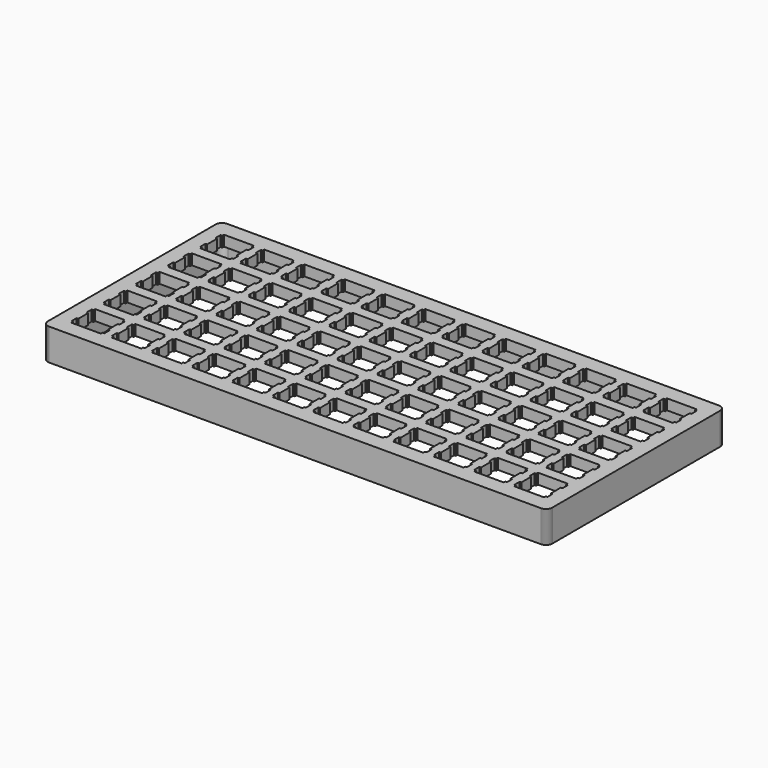
from build123d import *

# Parameters (mm, degrees)
F1_DEPTH = 15
F3_DEPTH = 10


with BuildPart() as f1:
    # F0 (on Top) → F1 (new body)
    with BuildSketch(Plane.XY):
        Polygon((116.536647, 52.616836), (116.300647, 52.624836), (-116.299283, 52.625836), (-116.534923, 52.616836), (-116.769193, 52.588836), (-117.000703, 52.542836), (-117.228073, 52.478836), (-117.448563, 52.396836), (-117.662153, 52.299836), (-117.867483, 52.181836), (-118.063163, 52.052836), (-118.249203, 51.906836), (-118.421459, 51.746836), (-118.58131, 51.574836), (-118.727381, 51.387836), (-118.856917, 51.192836), (-118.97405, 50.987836), (-119.071892, 50.773836), (-119.153196, 50.552836), (-119.217964, 50.325836), (-119.263439, 50.094836), (-119.291, 49.859836), (-119.299268, 49.624836), (-119.300646, -49.624464), (-119.291, -49.861494), (-119.263439, -50.095754), (-119.217964, -50.325894), (-119.153196, -50.553264), (-119.071892, -50.773754), (-118.97405, -50.987344), (-118.856917, -51.192674), (-118.727381, -51.389734), (-118.58131, -51.574394), (-118.421459, -51.746646), (-118.249203, -51.9065), (-118.063163, -52.052571), (-117.867483, -52.183483), (-117.662153, -52.29924), (-117.448563, -52.397081), (-117.228073, -52.479763), (-117.000703, -52.543153), (-116.769193, -52.588628), (-116.534923, -52.616189), (-116.299283, -52.624457), (116.300647, -52.625835), (116.536647, -52.616189), (116.770647, -52.588628), (117.001647, -52.543153), (117.228647, -52.479763), (117.448647, -52.397081), (117.662647, -52.29924), (117.867647, -52.183483), (118.064647, -52.052571), (118.249647, -51.9065), (118.421647, -51.746646), (118.581647, -51.574394), (118.727647, -51.389734), (118.858647, -51.192674), (118.974647, -50.987344), (119.072647, -50.773754), (119.154647, -50.553264), (119.218647, -50.325894), (119.263647, -50.095754), (119.291647, -49.861494), (119.300647, -49.624464), (119.300647, 49.624836), (119.291647, 49.859836), (119.263647, 50.094836), (119.218647, 50.325836), (119.154647, 50.552836), (119.072647, 50.773836), (118.974647, 50.987836), (118.858647, 51.192836), (118.727647, 51.387836), (118.581647, 51.574836), (118.421647, 51.746836), (118.249647, 51.906836), (118.064647, 52.052836), (117.867647, 52.181836), (117.662647, 52.299836), (117.448647, 52.396836), (117.228647, 52.478836), (117.001647, 52.542836), (116.770647, 52.588836), align=None)
        Polygon((-111.775163, -32.099964), (-111.775163, -31.099464), (-97.774253, -31.099464), (-97.774253, -32.099964), (-96.975053, -32.099964), (-96.975053, -35.199164), (-97.774253, -35.199164), (-97.774253, -41.000764), (-96.975053, -41.000764), (-96.975053, -44.099904), (-97.774253, -44.099904), (-97.774253, -45.100354), (-111.775163, -45.100354), (-111.775163, -44.099904), (-112.575833, -44.099904), (-112.575833, -41.000764), (-111.775163, -41.000764), (-111.775163, -35.199164), (-112.575833, -35.199164), (-112.575833, -32.099964), align=None, mode=Mode.SUBTRACT)
        Polygon((-92.725153, -32.099964), (-92.725153, -31.099464), (-78.724353, -31.099464), (-78.724353, -32.099964), (-77.924953, -32.099964), (-77.924953, -35.199164), (-78.724353, -35.199164), (-78.724353, -41.000764), (-77.924953, -41.000764), (-77.924953, -44.099904), (-78.724353, -44.099904), (-78.724353, -45.100354), (-92.725153, -45.100354), (-92.725153, -44.099904), (-93.524453, -44.099904), (-93.524453, -41.000764), (-92.725153, -41.000764), (-92.725153, -35.199164), (-93.524453, -35.199164), (-93.524453, -32.099964), align=None, mode=Mode.SUBTRACT)
        Polygon((-73.675053, -32.099964), (-73.675053, -31.099464), (-59.674353, -31.099464), (-59.674353, -32.099964), (-58.874953, -32.099964), (-58.874953, -35.199164), (-59.674353, -35.199164), (-59.674353, -41.000764), (-58.874953, -41.000764), (-58.874953, -44.099904), (-59.674353, -44.099904), (-59.674353, -45.100354), (-73.675053, -45.100354), (-73.675053, -44.099904), (-74.474453, -44.099904), (-74.474453, -41.000764), (-73.675053, -41.000764), (-73.675053, -35.199164), (-74.474453, -35.199164), (-74.474453, -32.099964), align=None, mode=Mode.SUBTRACT)
        Polygon((-54.625053, -32.099964), (-54.625053, -31.099464), (-40.624353, -31.099464), (-40.624353, -32.099964), (-39.824953, -32.099964), (-39.824953, -35.199164), (-40.624353, -35.199164), (-40.624353, -41.000764), (-39.824953, -41.000764), (-39.824953, -44.099904), (-40.624353, -44.099904), (-40.624353, -45.100354), (-54.625053, -45.100354), (-54.625053, -44.099904), (-55.424453, -44.099904), (-55.424453, -41.000764), (-54.625053, -41.000764), (-54.625053, -35.199164), (-55.424453, -35.199164), (-55.424453, -32.099964), align=None, mode=Mode.SUBTRACT)
        Polygon((-35.575053, -32.099964), (-35.575053, -31.099464), (-21.574353, -31.099464), (-21.574353, -32.099964), (-20.774953, -32.099964), (-20.774953, -35.199164), (-21.574353, -35.199164), (-21.574353, -41.000764), (-20.774953, -41.000764), (-20.774953, -44.099904), (-21.574353, -44.099904), (-21.574353, -45.100354), (-35.575053, -45.100354), (-35.575053, -44.099904), (-36.374453, -44.099904), (-36.374453, -41.000764), (-35.575053, -41.000764), (-35.575053, -35.199164), (-36.374453, -35.199164), (-36.374453, -32.099964), align=None, mode=Mode.SUBTRACT)
        Polygon((-16.525353, -32.099964), (-16.525353, -31.099464), (-2.525353, -31.099464), (-2.525353, -32.099964), (-1.725353, -32.099964), (-1.725353, -35.199164), (-2.525353, -35.199164), (-2.525353, -41.000764), (-1.725353, -41.000764), (-1.725353, -44.099904), (-2.525353, -44.099904), (-2.525353, -45.100354), (-16.525353, -45.100354), (-16.525353, -44.099904), (-17.324353, -44.099904), (-17.324353, -41.000764), (-16.525353, -41.000764), (-16.525353, -35.199164), (-17.324353, -35.199164), (-17.324353, -32.099964), align=None, mode=Mode.SUBTRACT)
        Polygon((-111.775163, -13.050064), (-111.775163, -12.049564), (-97.774253, -12.049564), (-97.774253, -13.050064), (-96.975053, -13.050064), (-96.975053, -16.149264), (-97.774253, -16.149264), (-97.774253, -21.950764), (-96.975053, -21.950764), (-96.975053, -25.049864), (-97.774253, -25.049864), (-97.774253, -26.050364), (-111.775163, -26.050364), (-111.775163, -25.049864), (-112.575833, -25.049864), (-112.575833, -21.950764), (-111.775163, -21.950764), (-111.775163, -16.149264), (-112.575833, -16.149264), (-112.575833, -13.050064), align=None, mode=Mode.SUBTRACT)
        Polygon((-92.725153, -13.050064), (-92.725153, -12.049564), (-78.724353, -12.049564), (-78.724353, -13.050064), (-77.924953, -13.050064), (-77.924953, -16.149264), (-78.724353, -16.149264), (-78.724353, -21.950764), (-77.924953, -21.950764), (-77.924953, -25.049864), (-78.724353, -25.049864), (-78.724353, -26.050364), (-92.725153, -26.050364), (-92.725153, -25.049864), (-93.524453, -25.049864), (-93.524453, -21.950764), (-92.725153, -21.950764), (-92.725153, -16.149264), (-93.524453, -16.149264), (-93.524453, -13.050064), align=None, mode=Mode.SUBTRACT)
        Polygon((-73.675053, -13.050064), (-73.675053, -12.049564), (-59.674353, -12.049564), (-59.674353, -13.050064), (-58.874953, -13.050064), (-58.874953, -16.149264), (-59.674353, -16.149264), (-59.674353, -21.950764), (-58.874953, -21.950764), (-58.874953, -25.049864), (-59.674353, -25.049864), (-59.674353, -26.050364), (-73.675053, -26.050364), (-73.675053, -25.049864), (-74.474453, -25.049864), (-74.474453, -21.950764), (-73.675053, -21.950764), (-73.675053, -16.149264), (-74.474453, -16.149264), (-74.474453, -13.050064), align=None, mode=Mode.SUBTRACT)
        Polygon((-54.625053, -13.050064), (-54.625053, -12.049564), (-40.624353, -12.049564), (-40.624353, -13.050064), (-39.824953, -13.050064), (-39.824953, -16.149264), (-40.624353, -16.149264), (-40.624353, -21.950764), (-39.824953, -21.950764), (-39.824953, -25.049864), (-40.624353, -25.049864), (-40.624353, -26.050364), (-54.625053, -26.050364), (-54.625053, -25.049864), (-55.424453, -25.049864), (-55.424453, -21.950764), (-54.625053, -21.950764), (-54.625053, -16.149264), (-55.424453, -16.149264), (-55.424453, -13.050064), align=None, mode=Mode.SUBTRACT)
        Polygon((-35.575053, -13.050064), (-35.575053, -12.049564), (-21.574353, -12.049564), (-21.574353, -13.050064), (-20.774953, -13.050064), (-20.774953, -16.149264), (-21.574353, -16.149264), (-21.574353, -21.950764), (-20.774953, -21.950764), (-20.774953, -25.049864), (-21.574353, -25.049864), (-21.574353, -26.050364), (-35.575053, -26.050364), (-35.575053, -25.049864), (-36.374453, -25.049864), (-36.374453, -21.950764), (-35.575053, -21.950764), (-35.575053, -16.149264), (-36.374453, -16.149264), (-36.374453, -13.050064), align=None, mode=Mode.SUBTRACT)
        Polygon((-16.525353, -13.050064), (-16.525353, -12.049564), (-2.525353, -12.049564), (-2.525353, -13.050064), (-1.725353, -13.050064), (-1.725353, -16.149264), (-2.525353, -16.149264), (-2.525353, -21.950764), (-1.725353, -21.950764), (-1.725353, -25.049864), (-2.525353, -25.049864), (-2.525353, -26.050364), (-16.525353, -26.050364), (-16.525353, -25.049864), (-17.324353, -25.049864), (-17.324353, -21.950764), (-16.525353, -21.950764), (-16.525353, -16.149264), (-17.324353, -16.149264), (-17.324353, -13.050064), align=None, mode=Mode.SUBTRACT)
        Polygon((2.524647, -32.099964), (2.524647, -31.099464), (16.525647, -31.099464), (16.525647, -32.099964), (17.324647, -32.099964), (17.324647, -35.199164), (16.525647, -35.199164), (16.525647, -41.000764), (17.324647, -41.000764), (17.324647, -44.099904), (16.525647, -44.099904), (16.525647, -45.100354), (2.524647, -45.100354), (2.524647, -44.099904), (1.723647, -44.099904), (1.723647, -41.000764), (2.524647, -41.000764), (2.524647, -35.199164), (1.723647, -35.199164), (1.723647, -32.099964), align=None, mode=Mode.SUBTRACT)
        Polygon((21.574647, -32.099964), (21.574647, -31.099464), (35.575647, -31.099464), (35.575647, -32.099964), (36.374647, -32.099964), (36.374647, -35.199164), (35.575647, -35.199164), (35.575647, -41.000764), (36.374647, -41.000764), (36.374647, -44.099904), (35.575647, -44.099904), (35.575647, -45.100354), (21.574647, -45.100354), (21.574647, -44.099904), (20.775647, -44.099904), (20.775647, -41.000764), (21.574647, -41.000764), (21.574647, -35.199164), (20.775647, -35.199164), (20.775647, -32.099964), align=None, mode=Mode.SUBTRACT)
        Polygon((40.624647, -32.099964), (40.624647, -31.099464), (54.625647, -31.099464), (54.625647, -32.099964), (55.424647, -32.099964), (55.424647, -35.199164), (54.625647, -35.199164), (54.625647, -41.000764), (55.424647, -41.000764), (55.424647, -44.099904), (54.625647, -44.099904), (54.625647, -45.100354), (40.624647, -45.100354), (40.624647, -44.099904), (39.825647, -44.099904), (39.825647, -41.000764), (40.624647, -41.000764), (40.624647, -35.199164), (39.825647, -35.199164), (39.825647, -32.099964), align=None, mode=Mode.SUBTRACT)
        Polygon((59.674647, -32.099964), (59.674647, -31.099464), (73.675647, -31.099464), (73.675647, -32.099964), (74.474647, -32.099964), (74.474647, -35.199164), (73.675647, -35.199164), (73.675647, -41.000764), (74.474647, -41.000764), (74.474647, -44.099904), (73.675647, -44.099904), (73.675647, -45.100354), (59.674647, -45.100354), (59.674647, -44.099904), (58.875647, -44.099904), (58.875647, -41.000764), (59.674647, -41.000764), (59.674647, -35.199164), (58.875647, -35.199164), (58.875647, -32.099964), align=None, mode=Mode.SUBTRACT)
        Polygon((78.724647, -32.099964), (78.724647, -31.099464), (92.725647, -31.099464), (92.725647, -32.099964), (93.524647, -32.099964), (93.524647, -35.199164), (92.725647, -35.199164), (92.725647, -41.000764), (93.524647, -41.000764), (93.524647, -44.099904), (92.725647, -44.099904), (92.725647, -45.100354), (78.724647, -45.100354), (78.724647, -44.099904), (77.925647, -44.099904), (77.925647, -41.000764), (78.724647, -41.000764), (78.724647, -35.199164), (77.925647, -35.199164), (77.925647, -32.099964), align=None, mode=Mode.SUBTRACT)
        Polygon((97.774647, -32.099964), (97.774647, -31.099464), (111.775647, -31.099464), (111.775647, -32.099964), (112.574647, -32.099964), (112.574647, -35.199164), (111.775647, -35.199164), (111.775647, -41.000764), (112.574647, -41.000764), (112.574647, -44.099904), (111.775647, -44.099904), (111.775647, -45.100354), (97.774647, -45.100354), (97.774647, -44.099904), (96.975647, -44.099904), (96.975647, -41.000764), (97.774647, -41.000764), (97.774647, -35.199164), (96.975647, -35.199164), (96.975647, -32.099964), align=None, mode=Mode.SUBTRACT)
        Polygon((2.524647, -13.050064), (2.524647, -12.049564), (16.525647, -12.049564), (16.525647, -13.050064), (17.324647, -13.050064), (17.324647, -16.149264), (16.525647, -16.149264), (16.525647, -21.950764), (17.324647, -21.950764), (17.324647, -25.049864), (16.525647, -25.049864), (16.525647, -26.050364), (2.524647, -26.050364), (2.524647, -25.049864), (1.723647, -25.049864), (1.723647, -21.950764), (2.524647, -21.950764), (2.524647, -16.149264), (1.723647, -16.149264), (1.723647, -13.050064), align=None, mode=Mode.SUBTRACT)
        Polygon((21.574647, -13.050064), (21.574647, -12.049564), (35.575647, -12.049564), (35.575647, -13.050064), (36.374647, -13.050064), (36.374647, -16.149264), (35.575647, -16.149264), (35.575647, -21.950764), (36.374647, -21.950764), (36.374647, -25.049864), (35.575647, -25.049864), (35.575647, -26.050364), (21.574647, -26.050364), (21.574647, -25.049864), (20.775647, -25.049864), (20.775647, -21.950764), (21.574647, -21.950764), (21.574647, -16.149264), (20.775647, -16.149264), (20.775647, -13.050064), align=None, mode=Mode.SUBTRACT)
        Polygon((40.624647, -13.050064), (40.624647, -12.049564), (54.625647, -12.049564), (54.625647, -13.050064), (55.424647, -13.050064), (55.424647, -16.149264), (54.625647, -16.149264), (54.625647, -21.950764), (55.424647, -21.950764), (55.424647, -25.049864), (54.625647, -25.049864), (54.625647, -26.050364), (40.624647, -26.050364), (40.624647, -25.049864), (39.825647, -25.049864), (39.825647, -21.950764), (40.624647, -21.950764), (40.624647, -16.149264), (39.825647, -16.149264), (39.825647, -13.050064), align=None, mode=Mode.SUBTRACT)
        Polygon((59.674647, -13.050064), (59.674647, -12.049564), (73.675647, -12.049564), (73.675647, -13.050064), (74.474647, -13.050064), (74.474647, -16.149264), (73.675647, -16.149264), (73.675647, -21.950764), (74.474647, -21.950764), (74.474647, -25.049864), (73.675647, -25.049864), (73.675647, -26.050364), (59.674647, -26.050364), (59.674647, -25.049864), (58.875647, -25.049864), (58.875647, -21.950764), (59.674647, -21.950764), (59.674647, -16.149264), (58.875647, -16.149264), (58.875647, -13.050064), align=None, mode=Mode.SUBTRACT)
        Polygon((78.724647, -13.050064), (78.724647, -12.049564), (92.725647, -12.049564), (92.725647, -13.050064), (93.524647, -13.050064), (93.524647, -16.149264), (92.725647, -16.149264), (92.725647, -21.950764), (93.524647, -21.950764), (93.524647, -25.049864), (92.725647, -25.049864), (92.725647, -26.050364), (78.724647, -26.050364), (78.724647, -25.049864), (77.925647, -25.049864), (77.925647, -21.950764), (78.724647, -21.950764), (78.724647, -16.149264), (77.925647, -16.149264), (77.925647, -13.050064), align=None, mode=Mode.SUBTRACT)
        Polygon((97.774647, -13.050064), (97.774647, -12.049564), (111.775647, -12.049564), (111.775647, -13.050064), (112.574647, -13.050064), (112.574647, -16.149264), (111.775647, -16.149264), (111.775647, -21.950764), (112.574647, -21.950764), (112.574647, -25.049864), (111.775647, -25.049864), (111.775647, -26.050364), (97.774647, -26.050364), (97.774647, -25.049864), (96.975647, -25.049864), (96.975647, -21.950764), (97.774647, -21.950764), (97.774647, -16.149264), (96.975647, -16.149264), (96.975647, -13.050064), align=None, mode=Mode.SUBTRACT)
        Polygon((-111.775163, 5.999936), (-111.775163, 7.000436), (-97.774253, 7.000436), (-97.774253, 5.999936), (-96.975053, 5.999936), (-96.975053, 2.899336), (-97.774253, 2.899336), (-97.774253, -2.900664), (-96.975053, -2.900664), (-96.975053, -5.999764), (-97.774253, -5.999764), (-97.774253, -7.000264), (-111.775163, -7.000264), (-111.775163, -5.999764), (-112.575833, -5.999764), (-112.575833, -2.900664), (-111.775163, -2.900664), (-111.775163, 2.899336), (-112.575833, 2.899336), (-112.575833, 5.999936), align=None, mode=Mode.SUBTRACT)
        Polygon((-92.725153, 5.999936), (-92.725153, 7.000436), (-78.724353, 7.000436), (-78.724353, 5.999936), (-77.924953, 5.999936), (-77.924953, 2.899336), (-78.724353, 2.899336), (-78.724353, -2.900664), (-77.924953, -2.900664), (-77.924953, -5.999764), (-78.724353, -5.999764), (-78.724353, -7.000264), (-92.725153, -7.000264), (-92.725153, -5.999764), (-93.524453, -5.999764), (-93.524453, -2.900664), (-92.725153, -2.900664), (-92.725153, 2.899336), (-93.524453, 2.899336), (-93.524453, 5.999936), align=None, mode=Mode.SUBTRACT)
        Polygon((-73.675053, 5.999936), (-73.675053, 7.000436), (-59.674353, 7.000436), (-59.674353, 5.999936), (-58.874953, 5.999936), (-58.874953, 2.899336), (-59.674353, 2.899336), (-59.674353, -2.900664), (-58.874953, -2.900664), (-58.874953, -5.999764), (-59.674353, -5.999764), (-59.674353, -7.000264), (-73.675053, -7.000264), (-73.675053, -5.999764), (-74.474453, -5.999764), (-74.474453, -2.900664), (-73.675053, -2.900664), (-73.675053, 2.899336), (-74.474453, 2.899336), (-74.474453, 5.999936), align=None, mode=Mode.SUBTRACT)
        Polygon((-111.775163, 25.049936), (-111.775163, 26.050436), (-97.774253, 26.050436), (-97.774253, 25.049936), (-96.975053, 25.049936), (-96.975053, 21.949336), (-97.774253, 21.949336), (-97.774253, 16.149336), (-96.975053, 16.149336), (-96.975053, 13.050236), (-97.774253, 13.050236), (-97.774253, 12.049736), (-111.775163, 12.049736), (-111.775163, 13.050236), (-112.575833, 13.050236), (-112.575833, 16.149336), (-111.775163, 16.149336), (-111.775163, 21.949336), (-112.575833, 21.949336), (-112.575833, 25.049936), align=None, mode=Mode.SUBTRACT)
        Polygon((-92.725153, 25.049936), (-92.725153, 26.050436), (-78.724353, 26.050436), (-78.724353, 25.049936), (-77.924953, 25.049936), (-77.924953, 21.949336), (-78.724353, 21.949336), (-78.724353, 16.149336), (-77.924953, 16.149336), (-77.924953, 13.050236), (-78.724353, 13.050236), (-78.724353, 12.049736), (-92.725153, 12.049736), (-92.725153, 13.050236), (-93.524453, 13.050236), (-93.524453, 16.149336), (-92.725153, 16.149336), (-92.725153, 21.949336), (-93.524453, 21.949336), (-93.524453, 25.049936), align=None, mode=Mode.SUBTRACT)
        Polygon((-73.675053, 25.049936), (-73.675053, 26.050436), (-59.674353, 26.050436), (-59.674353, 25.049936), (-58.874953, 25.049936), (-58.874953, 21.949336), (-59.674353, 21.949336), (-59.674353, 16.149336), (-58.874953, 16.149336), (-58.874953, 13.050236), (-59.674353, 13.050236), (-59.674353, 12.049736), (-73.675053, 12.049736), (-73.675053, 13.050236), (-74.474453, 13.050236), (-74.474453, 16.149336), (-73.675053, 16.149336), (-73.675053, 21.949336), (-74.474453, 21.949336), (-74.474453, 25.049936), align=None, mode=Mode.SUBTRACT)
        Polygon((-54.625053, 5.999936), (-54.625053, 7.000436), (-40.624353, 7.000436), (-40.624353, 5.999936), (-39.824953, 5.999936), (-39.824953, 2.899336), (-40.624353, 2.899336), (-40.624353, -2.900664), (-39.824953, -2.900664), (-39.824953, -5.999764), (-40.624353, -5.999764), (-40.624353, -7.000264), (-54.625053, -7.000264), (-54.625053, -5.999764), (-55.424453, -5.999764), (-55.424453, -2.900664), (-54.625053, -2.900664), (-54.625053, 2.899336), (-55.424453, 2.899336), (-55.424453, 5.999936), align=None, mode=Mode.SUBTRACT)
        Polygon((-35.575053, 5.999936), (-35.575053, 7.000436), (-21.574353, 7.000436), (-21.574353, 5.999936), (-20.774953, 5.999936), (-20.774953, 2.899336), (-21.574353, 2.899336), (-21.574353, -2.900664), (-20.774953, -2.900664), (-20.774953, -5.999764), (-21.574353, -5.999764), (-21.574353, -7.000264), (-35.575053, -7.000264), (-35.575053, -5.999764), (-36.374453, -5.999764), (-36.374453, -2.900664), (-35.575053, -2.900664), (-35.575053, 2.899336), (-36.374453, 2.899336), (-36.374453, 5.999936), align=None, mode=Mode.SUBTRACT)
        Polygon((-16.525353, 5.999936), (-16.525353, 7.000436), (-2.525353, 7.000436), (-2.525353, 5.999936), (-1.725353, 5.999936), (-1.725353, 2.899336), (-2.525353, 2.899336), (-2.525353, -2.900664), (-1.725353, -2.900664), (-1.725353, -5.999764), (-2.525353, -5.999764), (-2.525353, -7.000264), (-16.525353, -7.000264), (-16.525353, -5.999764), (-17.324353, -5.999764), (-17.324353, -2.900664), (-16.525353, -2.900664), (-16.525353, 2.899336), (-17.324353, 2.899336), (-17.324353, 5.999936), align=None, mode=Mode.SUBTRACT)
        Polygon((-54.625053, 25.049936), (-54.625053, 26.050436), (-40.624353, 26.050436), (-40.624353, 25.049936), (-39.824953, 25.049936), (-39.824953, 21.949336), (-40.624353, 21.949336), (-40.624353, 16.149336), (-39.824953, 16.149336), (-39.824953, 13.050236), (-40.624353, 13.050236), (-40.624353, 12.049736), (-54.625053, 12.049736), (-54.625053, 13.050236), (-55.424453, 13.050236), (-55.424453, 16.149336), (-54.625053, 16.149336), (-54.625053, 21.949336), (-55.424453, 21.949336), (-55.424453, 25.049936), align=None, mode=Mode.SUBTRACT)
        Polygon((-35.575053, 25.049936), (-35.575053, 26.050436), (-21.574353, 26.050436), (-21.574353, 25.049936), (-20.774953, 25.049936), (-20.774953, 21.949336), (-21.574353, 21.949336), (-21.574353, 16.149336), (-20.774953, 16.149336), (-20.774953, 13.050236), (-21.574353, 13.050236), (-21.574353, 12.049736), (-35.575053, 12.049736), (-35.575053, 13.050236), (-36.374453, 13.050236), (-36.374453, 16.149336), (-35.575053, 16.149336), (-35.575053, 21.949336), (-36.374453, 21.949336), (-36.374453, 25.049936), align=None, mode=Mode.SUBTRACT)
        Polygon((-16.525353, 25.049936), (-16.525353, 26.050436), (-2.525353, 26.050436), (-2.525353, 25.049936), (-1.725353, 25.049936), (-1.725353, 21.949336), (-2.525353, 21.949336), (-2.525353, 16.149336), (-1.725353, 16.149336), (-1.725353, 13.050236), (-2.525353, 13.050236), (-2.525353, 12.049736), (-16.525353, 12.049736), (-16.525353, 13.050236), (-17.324353, 13.050236), (-17.324353, 16.149336), (-16.525353, 16.149336), (-16.525353, 21.949336), (-17.324353, 21.949336), (-17.324353, 25.049936), align=None, mode=Mode.SUBTRACT)
        Polygon((-111.775163, 44.101336), (-111.775163, 45.100436), (-97.774253, 45.100436), (-97.774253, 44.101336), (-96.975053, 44.101336), (-96.975053, 40.999336), (-97.774253, 40.999336), (-97.774253, 35.200736), (-96.975053, 35.200736), (-96.975053, 32.100236), (-97.774253, 32.100236), (-97.774253, 31.099736), (-111.775163, 31.099736), (-111.775163, 32.100236), (-112.575833, 32.100236), (-112.575833, 35.200736), (-111.775163, 35.200736), (-111.775163, 40.999336), (-112.575833, 40.999336), (-112.575833, 44.101336), align=None, mode=Mode.SUBTRACT)
        Polygon((-92.725153, 44.101336), (-92.725153, 45.100436), (-78.724353, 45.100436), (-78.724353, 44.101336), (-77.924953, 44.101336), (-77.924953, 40.999336), (-78.724353, 40.999336), (-78.724353, 35.200736), (-77.924953, 35.200736), (-77.924953, 32.100236), (-78.724353, 32.100236), (-78.724353, 31.099736), (-92.725153, 31.099736), (-92.725153, 32.100236), (-93.524453, 32.100236), (-93.524453, 35.200736), (-92.725153, 35.200736), (-92.725153, 40.999336), (-93.524453, 40.999336), (-93.524453, 44.101336), align=None, mode=Mode.SUBTRACT)
        Polygon((-73.675053, 44.101336), (-73.675053, 45.100436), (-59.674353, 45.100436), (-59.674353, 44.101336), (-58.874953, 44.101336), (-58.874953, 40.999336), (-59.674353, 40.999336), (-59.674353, 35.200736), (-58.874953, 35.200736), (-58.874953, 32.100236), (-59.674353, 32.100236), (-59.674353, 31.099736), (-73.675053, 31.099736), (-73.675053, 32.100236), (-74.474453, 32.100236), (-74.474453, 35.200736), (-73.675053, 35.200736), (-73.675053, 40.999336), (-74.474453, 40.999336), (-74.474453, 44.101336), align=None, mode=Mode.SUBTRACT)
        Polygon((-54.625053, 44.101336), (-54.625053, 45.100436), (-40.624353, 45.100436), (-40.624353, 44.101336), (-39.824953, 44.101336), (-39.824953, 40.999336), (-40.624353, 40.999336), (-40.624353, 35.200736), (-39.824953, 35.200736), (-39.824953, 32.100236), (-40.624353, 32.100236), (-40.624353, 31.099736), (-54.625053, 31.099736), (-54.625053, 32.100236), (-55.424453, 32.100236), (-55.424453, 35.200736), (-54.625053, 35.200736), (-54.625053, 40.999336), (-55.424453, 40.999336), (-55.424453, 44.101336), align=None, mode=Mode.SUBTRACT)
        Polygon((-35.575053, 44.101336), (-35.575053, 45.100436), (-21.574353, 45.100436), (-21.574353, 44.101336), (-20.774953, 44.101336), (-20.774953, 40.999336), (-21.574353, 40.999336), (-21.574353, 35.200736), (-20.774953, 35.200736), (-20.774953, 32.100236), (-21.574353, 32.100236), (-21.574353, 31.099736), (-35.575053, 31.099736), (-35.575053, 32.100236), (-36.374453, 32.100236), (-36.374453, 35.200736), (-35.575053, 35.200736), (-35.575053, 40.999336), (-36.374453, 40.999336), (-36.374453, 44.101336), align=None, mode=Mode.SUBTRACT)
        Polygon((-16.525353, 44.101336), (-16.525353, 45.100436), (-2.525353, 45.100436), (-2.525353, 44.101336), (-1.725353, 44.101336), (-1.725353, 40.999336), (-2.525353, 40.999336), (-2.525353, 35.200736), (-1.725353, 35.200736), (-1.725353, 32.100236), (-2.525353, 32.100236), (-2.525353, 31.099736), (-16.525353, 31.099736), (-16.525353, 32.100236), (-17.324353, 32.100236), (-17.324353, 35.200736), (-16.525353, 35.200736), (-16.525353, 40.999336), (-17.324353, 40.999336), (-17.324353, 44.101336), align=None, mode=Mode.SUBTRACT)
        Polygon((2.524647, 5.999936), (2.524647, 7.000436), (16.525647, 7.000436), (16.525647, 5.999936), (17.324647, 5.999936), (17.324647, 2.899336), (16.525647, 2.899336), (16.525647, -2.900664), (17.324647, -2.900664), (17.324647, -5.999764), (16.525647, -5.999764), (16.525647, -7.000264), (2.524647, -7.000264), (2.524647, -5.999764), (1.723647, -5.999764), (1.723647, -2.900664), (2.524647, -2.900664), (2.524647, 2.899336), (1.723647, 2.899336), (1.723647, 5.999936), align=None, mode=Mode.SUBTRACT)
        Polygon((21.574647, 5.999936), (21.574647, 7.000436), (35.575647, 7.000436), (35.575647, 5.999936), (36.374647, 5.999936), (36.374647, 2.899336), (35.575647, 2.899336), (35.575647, -2.900664), (36.374647, -2.900664), (36.374647, -5.999764), (35.575647, -5.999764), (35.575647, -7.000264), (21.574647, -7.000264), (21.574647, -5.999764), (20.775647, -5.999764), (20.775647, -2.900664), (21.574647, -2.900664), (21.574647, 2.899336), (20.775647, 2.899336), (20.775647, 5.999936), align=None, mode=Mode.SUBTRACT)
        Polygon((40.624647, 5.999936), (40.624647, 7.000436), (54.625647, 7.000436), (54.625647, 5.999936), (55.424647, 5.999936), (55.424647, 2.899336), (54.625647, 2.899336), (54.625647, -2.900664), (55.424647, -2.900664), (55.424647, -5.999764), (54.625647, -5.999764), (54.625647, -7.000264), (40.624647, -7.000264), (40.624647, -5.999764), (39.825647, -5.999764), (39.825647, -2.900664), (40.624647, -2.900664), (40.624647, 2.899336), (39.825647, 2.899336), (39.825647, 5.999936), align=None, mode=Mode.SUBTRACT)
        Polygon((2.524647, 25.049936), (2.524647, 26.050436), (16.525647, 26.050436), (16.525647, 25.049936), (17.324647, 25.049936), (17.324647, 21.949336), (16.525647, 21.949336), (16.525647, 16.149336), (17.324647, 16.149336), (17.324647, 13.050236), (16.525647, 13.050236), (16.525647, 12.049736), (2.524647, 12.049736), (2.524647, 13.050236), (1.723647, 13.050236), (1.723647, 16.149336), (2.524647, 16.149336), (2.524647, 21.949336), (1.723647, 21.949336), (1.723647, 25.049936), align=None, mode=Mode.SUBTRACT)
        Polygon((21.574647, 25.049936), (21.574647, 26.050436), (35.575647, 26.050436), (35.575647, 25.049936), (36.374647, 25.049936), (36.374647, 21.949336), (35.575647, 21.949336), (35.575647, 16.149336), (36.374647, 16.149336), (36.374647, 13.050236), (35.575647, 13.050236), (35.575647, 12.049736), (21.574647, 12.049736), (21.574647, 13.050236), (20.775647, 13.050236), (20.775647, 16.149336), (21.574647, 16.149336), (21.574647, 21.949336), (20.775647, 21.949336), (20.775647, 25.049936), align=None, mode=Mode.SUBTRACT)
        Polygon((40.624647, 25.049936), (40.624647, 26.050436), (54.625647, 26.050436), (54.625647, 25.049936), (55.424647, 25.049936), (55.424647, 21.949336), (54.625647, 21.949336), (54.625647, 16.149336), (55.424647, 16.149336), (55.424647, 13.050236), (54.625647, 13.050236), (54.625647, 12.049736), (40.624647, 12.049736), (40.624647, 13.050236), (39.825647, 13.050236), (39.825647, 16.149336), (40.624647, 16.149336), (40.624647, 21.949336), (39.825647, 21.949336), (39.825647, 25.049936), align=None, mode=Mode.SUBTRACT)
        Polygon((59.674647, 5.999936), (59.674647, 7.000436), (73.675647, 7.000436), (73.675647, 5.999936), (74.474647, 5.999936), (74.474647, 2.899336), (73.675647, 2.899336), (73.675647, -2.900664), (74.474647, -2.900664), (74.474647, -5.999764), (73.675647, -5.999764), (73.675647, -7.000264), (59.674647, -7.000264), (59.674647, -5.999764), (58.875647, -5.999764), (58.875647, -2.900664), (59.674647, -2.900664), (59.674647, 2.899336), (58.875647, 2.899336), (58.875647, 5.999936), align=None, mode=Mode.SUBTRACT)
        Polygon((78.724647, 5.999936), (78.724647, 7.000436), (92.725647, 7.000436), (92.725647, 5.999936), (93.524647, 5.999936), (93.524647, 2.899336), (92.725647, 2.899336), (92.725647, -2.900664), (93.524647, -2.900664), (93.524647, -5.999764), (92.725647, -5.999764), (92.725647, -7.000264), (78.724647, -7.000264), (78.724647, -5.999764), (77.925647, -5.999764), (77.925647, -2.900664), (78.724647, -2.900664), (78.724647, 2.899336), (77.925647, 2.899336), (77.925647, 5.999936), align=None, mode=Mode.SUBTRACT)
        Polygon((97.774647, 5.999936), (97.774647, 7.000436), (111.775647, 7.000436), (111.775647, 5.999936), (112.574647, 5.999936), (112.574647, 2.899336), (111.775647, 2.899336), (111.775647, -2.900664), (112.574647, -2.900664), (112.574647, -5.999764), (111.775647, -5.999764), (111.775647, -7.000264), (97.774647, -7.000264), (97.774647, -5.999764), (96.975647, -5.999764), (96.975647, -2.900664), (97.774647, -2.900664), (97.774647, 2.899336), (96.975647, 2.899336), (96.975647, 5.999936), align=None, mode=Mode.SUBTRACT)
        Polygon((59.674647, 25.049936), (59.674647, 26.050436), (73.675647, 26.050436), (73.675647, 25.049936), (74.474647, 25.049936), (74.474647, 21.949336), (73.675647, 21.949336), (73.675647, 16.149336), (74.474647, 16.149336), (74.474647, 13.050236), (73.675647, 13.050236), (73.675647, 12.049736), (59.674647, 12.049736), (59.674647, 13.050236), (58.875647, 13.050236), (58.875647, 16.149336), (59.674647, 16.149336), (59.674647, 21.949336), (58.875647, 21.949336), (58.875647, 25.049936), align=None, mode=Mode.SUBTRACT)
        Polygon((78.724647, 25.049936), (78.724647, 26.050436), (92.725647, 26.050436), (92.725647, 25.049936), (93.524647, 25.049936), (93.524647, 21.949336), (92.725647, 21.949336), (92.725647, 16.149336), (93.524647, 16.149336), (93.524647, 13.050236), (92.725647, 13.050236), (92.725647, 12.049736), (78.724647, 12.049736), (78.724647, 13.050236), (77.925647, 13.050236), (77.925647, 16.149336), (78.724647, 16.149336), (78.724647, 21.949336), (77.925647, 21.949336), (77.925647, 25.049936), align=None, mode=Mode.SUBTRACT)
        Polygon((97.774647, 25.049936), (97.774647, 26.050436), (111.775647, 26.050436), (111.775647, 25.049936), (112.574647, 25.049936), (112.574647, 21.949336), (111.775647, 21.949336), (111.775647, 16.149336), (112.574647, 16.149336), (112.574647, 13.050236), (111.775647, 13.050236), (111.775647, 12.049736), (97.774647, 12.049736), (97.774647, 13.050236), (96.975647, 13.050236), (96.975647, 16.149336), (97.774647, 16.149336), (97.774647, 21.949336), (96.975647, 21.949336), (96.975647, 25.049936), align=None, mode=Mode.SUBTRACT)
        Polygon((2.524647, 44.101336), (2.524647, 45.100436), (16.525647, 45.100436), (16.525647, 44.101336), (17.324647, 44.101336), (17.324647, 40.999336), (16.525647, 40.999336), (16.525647, 35.200736), (17.324647, 35.200736), (17.324647, 32.100236), (16.525647, 32.100236), (16.525647, 31.099736), (2.524647, 31.099736), (2.524647, 32.100236), (1.723647, 32.100236), (1.723647, 35.200736), (2.524647, 35.200736), (2.524647, 40.999336), (1.723647, 40.999336), (1.723647, 44.101336), align=None, mode=Mode.SUBTRACT)
        Polygon((21.574647, 44.101336), (21.574647, 45.100436), (35.575647, 45.100436), (35.575647, 44.101336), (36.374647, 44.101336), (36.374647, 40.999336), (35.575647, 40.999336), (35.575647, 35.200736), (36.374647, 35.200736), (36.374647, 32.100236), (35.575647, 32.100236), (35.575647, 31.099736), (21.574647, 31.099736), (21.574647, 32.100236), (20.775647, 32.100236), (20.775647, 35.200736), (21.574647, 35.200736), (21.574647, 40.999336), (20.775647, 40.999336), (20.775647, 44.101336), align=None, mode=Mode.SUBTRACT)
        Polygon((40.624647, 44.101336), (40.624647, 45.100436), (54.625647, 45.100436), (54.625647, 44.101336), (55.424647, 44.101336), (55.424647, 40.999336), (54.625647, 40.999336), (54.625647, 35.200736), (55.424647, 35.200736), (55.424647, 32.100236), (54.625647, 32.100236), (54.625647, 31.099736), (40.624647, 31.099736), (40.624647, 32.100236), (39.825647, 32.100236), (39.825647, 35.200736), (40.624647, 35.200736), (40.624647, 40.999336), (39.825647, 40.999336), (39.825647, 44.101336), align=None, mode=Mode.SUBTRACT)
        Polygon((59.674647, 44.101336), (59.674647, 45.100436), (73.675647, 45.100436), (73.675647, 44.101336), (74.474647, 44.101336), (74.474647, 40.999336), (73.675647, 40.999336), (73.675647, 35.200736), (74.474647, 35.200736), (74.474647, 32.100236), (73.675647, 32.100236), (73.675647, 31.099736), (59.674647, 31.099736), (59.674647, 32.100236), (58.875647, 32.100236), (58.875647, 35.200736), (59.674647, 35.200736), (59.674647, 40.999336), (58.875647, 40.999336), (58.875647, 44.101336), align=None, mode=Mode.SUBTRACT)
        Polygon((78.724647, 44.101336), (78.724647, 45.100436), (92.725647, 45.100436), (92.725647, 44.101336), (93.524647, 44.101336), (93.524647, 40.999336), (92.725647, 40.999336), (92.725647, 35.200736), (93.524647, 35.200736), (93.524647, 32.100236), (92.725647, 32.100236), (92.725647, 31.099736), (78.724647, 31.099736), (78.724647, 32.100236), (77.925647, 32.100236), (77.925647, 35.200736), (78.724647, 35.200736), (78.724647, 40.999336), (77.925647, 40.999336), (77.925647, 44.101336), align=None, mode=Mode.SUBTRACT)
        Polygon((97.774647, 44.101336), (97.774647, 45.100436), (111.775647, 45.100436), (111.775647, 44.101336), (112.574647, 44.101336), (112.574647, 40.999336), (111.775647, 40.999336), (111.775647, 35.200736), (112.574647, 35.200736), (112.574647, 32.100236), (111.775647, 32.100236), (111.775647, 31.099736), (97.774647, 31.099736), (97.774647, 32.100236), (96.975647, 32.100236), (96.975647, 35.200736), (97.774647, 35.200736), (97.774647, 40.999336), (96.975647, 40.999336), (96.975647, 44.101336), align=None, mode=Mode.SUBTRACT)
    extrude(amount=F1_DEPTH)

    # F2 (on face) → F3 (cut)
    with BuildSketch(Plane(origin=(0, 0, 0), x_dir=(1, 0, 0), z_dir=(0, 0, -1))):
        with BuildLine():
            ThreePointArc((115.496799, 45.434842), (114.61812, 47.556163), (112.496799, 48.434842))
            Line((112.496799, 48.434842), (-112.496799, 48.434842))
            ThreePointArc((-112.496799, 48.434842), (-114.61812, 47.556163), (-115.496799, 45.434842))
            Line((-115.496799, 45.434842), (-115.496799, -45.434842))
            ThreePointArc((-115.496799, -45.434842), (-114.61812, -47.556163), (-112.496799, -48.434842))
            Line((-112.496799, -48.434842), (112.496799, -48.434842))
            ThreePointArc((112.496799, -48.434842), (114.61812, -47.556163), (115.496799, -45.434842))
            Line((115.496799, -45.434842), (115.496799, 45.434842))
        make_face()
    extrude(amount=-F3_DEPTH, mode=Mode.SUBTRACT)


solid = f1.part
